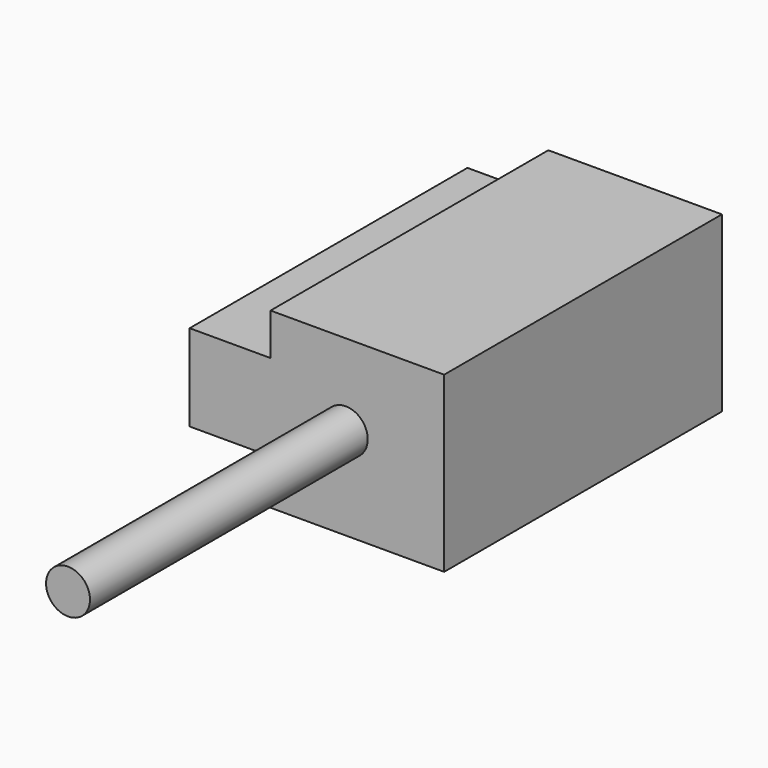
from build123d import *

# Parameters (mm, degrees)
F0_W     = 118.379154
F0_H     = 126.638353
F1_DEPTH = 508
F2_R     = 32.145306
F3_DEPTH = 508
F4_DEPTH = 508
F5_DEPTH = 508


with BuildPart() as f1:
    # F0 (on Front) → F1 (new body)
    with BuildSketch(Plane.XZ):
        Polygon((-254, 0), (0, 0), (0, 254), (-254, 254), (-254, 192.787692), (-254, 66.149339), align=None)
        with Locations((-313.189577, 129.468515)):
            Rectangle(F0_W, F0_H)
    extrude(amount=F1_DEPTH)

    # F2 (on face) → F3 (join)
    with BuildSketch(Plane.XZ.offset(508)):
        with Locations((-143.956617, 134.362638)):
            Circle(F2_R)
    extrude(amount=-F3_DEPTH)

    # F2 (on face) + F1_face (on face) → F4 (join)
    with BuildSketch(Plane.XZ.offset(508)):
        with Locations((-143.956617, 134.362638)):
            Circle(F2_R)
    with BuildSketch(Plane(origin=(-162.106588, -508, 127.465446), x_dir=(1, 0, 0), z_dir=(0, -1, 0))):
        Polygon((-91.893412, -127.465446), (162.106588, -127.465446), (162.106588, 126.534554), (-91.893412, 126.534554), (-91.893412, 65.322246), (-210.272566, 65.322246), (-210.272566, -61.316107), (-91.893412, -61.316107), align=None)
    extrude(amount=-F4_DEPTH)

    # F2 (on face) → F5 (join)
    with BuildSketch(Plane.XZ.offset(508)):
        with Locations((-143.956617, 134.362638)):
            Circle(F2_R)
    extrude(amount=F5_DEPTH)


solid = f1.part
